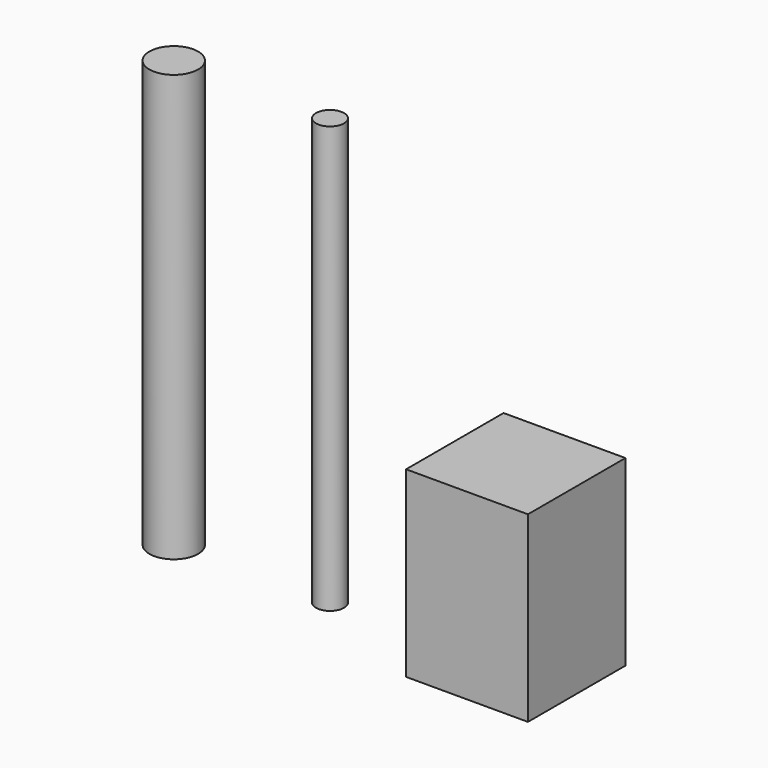
from build123d import *

# Parameters (mm, degrees)
F0_R     = 4
F1_DEPTH = 70
F2_R     = 2.3
F3_DEPTH = 70
F4_W     = 20
F4_H     = 20
F5_DEPTH = 30


with BuildPart() as f1:
    # F0 (on Top) → F1 (new body)
    with BuildSketch(Plane.XY):
        with Locations((-16.16248, 0)):
            Circle(F0_R)
    extrude(amount=F1_DEPTH)


with BuildPart() as f3:
    # F2 (on Top) → F3 (new body)
    with BuildSketch(Plane.XY):
        with Locations((9.479851, 0)):
            Circle(F2_R)
    extrude(amount=F3_DEPTH)


with BuildPart() as f5:
    # F4 (on Top) → F5 (new body)
    with BuildSketch(Plane.XY):
        with Locations((39.96409, 0)):
            Rectangle(F4_W, F4_H)
    extrude(amount=F5_DEPTH)


solid = Compound([f1.part, f3.part, f5.part])
